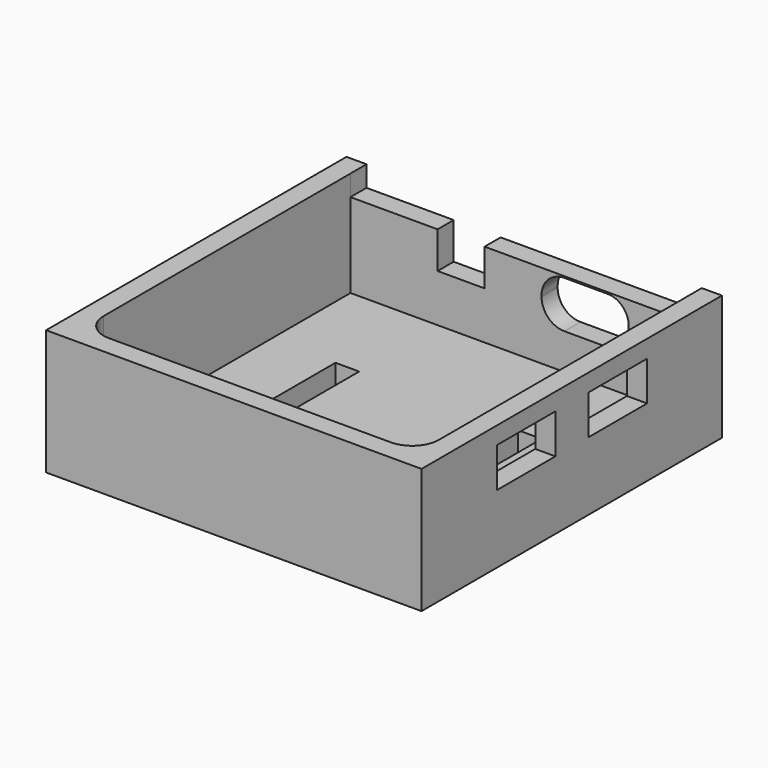
from build123d import *

# Parameters (mm, degrees)
SKETCH_W        = 56
SKETCH_H        = 56
PAD_DEPTH       = 18.68
PAD001_DEPTH    = 17
SKETCH004_W     = 50
SKETCH004_H     = 50
PAD002_DEPTH    = 3
SKETCH005_W     = 3.539247
SKETCH005_H     = 31.476045
SKETCH005_W_2   = 3.539498
SKETCH005_H_2   = 31.470025
POCKET003_DEPTH = 3
POCKET004_DEPTH = 5
POCKET005_DEPTH = 5
SKETCH003_W     = 10.900068
SKETCH003_H     = 5.909133
SKETCH003_W_2   = 10.899807
SKETCH003_H_2   = 5.880531
POCKET006_DEPTH = 10
POCKET007_DEPTH = 5
SKETCH002_W     = 7.004639
SKETCH002_H     = 5.993783
SKETCH002_W_2   = 50
SKETCH002_H_2   = 4
POCKET008_DEPTH = 5


with BuildPart() as part:
    # Sketch → Pad (new body)
    with BuildSketch(Plane.XY.offset(-11.59)):
        Rectangle(SKETCH_W, SKETCH_H)
        with BuildLine():
            Line((-21.013424, -25), (21.039206, -25))
            ThreePointArc((21.039206, -25), (23.83991, -23.83991), (25, -21.039206))
            Line((25, -21.039206), (25, 21.096275))
            Line((25, 21.096275), (25, 25))
            Line((21.096275, 25), (25, 25))
            Line((21.096275, 25), (-20.979066, 25))
            Line((-20.979066, 25), (-25, 25))
            Line((-25, 20.979066), (-25, 25))
            Line((-25, 20.979066), (-25, -21.013424))
            ThreePointArc((-25, -21.013424), (-23.832359, -23.832359), (-21.013424, -25))
        make_face(mode=Mode.SUBTRACT)
    extrude(amount=PAD_DEPTH)

    # Sketch → Pad001 (join)
    with BuildSketch(Plane.XY.offset(-11.59)):
        Rectangle(SKETCH_W, SKETCH_H)
        with BuildLine():
            Line((-21.013424, -25), (21.039206, -25))
            ThreePointArc((21.039206, -25), (23.83991, -23.83991), (25, -21.039206))
            Line((25, -21.039206), (25, 21.096275))
            Line((25, 21.096275), (25, 25))
            Line((21.096275, 25), (25, 25))
            Line((21.096275, 25), (-20.979066, 25))
            Line((-20.979066, 25), (-25, 25))
            Line((-25, 20.979066), (-25, 25))
            Line((-25, 20.979066), (-25, -21.013424))
            ThreePointArc((-25, -21.013424), (-23.832359, -23.832359), (-21.013424, -25))
        make_face(mode=Mode.SUBTRACT)
    extrude(amount=PAD001_DEPTH)

    # Sketch004 (on Sketch) → Pad002 (join)
    with BuildSketch(Plane.XY.offset(-11.59)):
        Rectangle(SKETCH004_W, SKETCH004_H)
    extrude(amount=PAD002_DEPTH)

    # Sketch005 (on Pad) → Pocket003 (cut)
    with BuildSketch(Plane.XY.offset(-11.59)):
        with Locations((-13.5995, -5.578318)):
            Rectangle(SKETCH005_W, SKETCH005_H)
        with Locations((13.600253, -5.565392)):
            Rectangle(SKETCH005_W_2, SKETCH005_H_2)
    extrude(amount=-POCKET003_DEPTH, mode=Mode.SUBTRACT)

    # Sketch005 (on Pad) → Pocket004 (cut)
    with BuildSketch(Plane.XY.offset(-11.59)):
        with Locations((-13.5995, -5.578318)):
            Rectangle(SKETCH005_W, SKETCH005_H)
        with Locations((13.600253, -5.565392)):
            Rectangle(SKETCH005_W_2, SKETCH005_H_2)
    extrude(amount=-POCKET004_DEPTH, mode=Mode.SUBTRACT)

    # Sketch005 (on Pad) → Pocket005 (cut)
    with BuildSketch(Plane.XY.offset(-11.59)):
        with Locations((-13.5995, -5.578318)):
            Rectangle(SKETCH005_W, SKETCH005_H)
        with Locations((13.600253, -5.565392)):
            Rectangle(SKETCH005_W_2, SKETCH005_H_2)
    extrude(amount=POCKET005_DEPTH, mode=Mode.SUBTRACT)

    # Sketch003 → Pocket006 (cut)
    with BuildSketch(Plane(origin=(25, 0, -3), x_dir=(0, 1, 0), z_dir=(1, 0, 0))):
        with Locations((-8.499979, 4.550172)):
            Rectangle(SKETCH003_W, SKETCH003_H)
        with Locations((8.599925, 4.534825)):
            Rectangle(SKETCH003_W_2, SKETCH003_H_2)
    extrude(amount=POCKET006_DEPTH, mode=Mode.SUBTRACT)

    # Sketch001 → Pocket007 (cut)
    with BuildSketch(Plane(origin=(10, 25, 0.26), x_dir=(1, 0, 0), z_dir=(0, -1, 0))):
        with BuildLine():
            Line((-3.099737, -3.5), (3.104045, -3.5))
            ThreePointArc((3.104045, -3.5), (5.505348, -2.505348), (6.5, -0.104045))
            Line((6.5, -0.104045), (6.5, 0.345505))
            ThreePointArc((6.5, 0.345505), (5.57607, 2.57607), (3.345505, 3.5))
            Line((3.345505, 3.5), (-3.100127, 3.5))
            ThreePointArc((-3.100127, 3.5), (-5.5042, 2.5042), (-6.5, 0.100127))
            Line((-6.5, 0.100127), (-6.5, -0.099737))
            ThreePointArc((-6.5, -0.099737), (-5.504086, -2.504086), (-3.099737, -3.5))
        make_face()
    extrude(amount=-POCKET007_DEPTH, mode=Mode.SUBTRACT)

    # Sketch002 → Pocket008 (cut)
    with BuildSketch(Plane(origin=(0, 25, -3), x_dir=(1, 0, 0), z_dir=(0, -1, 0))):
        with Locations((-8.503573, 4.513289)):
            Rectangle(SKETCH002_W, SKETCH002_H)
        with Locations((-0.011459, 8.993781)):
            Rectangle(SKETCH002_W_2, SKETCH002_H_2)
    extrude(amount=-POCKET008_DEPTH, mode=Mode.SUBTRACT)


solid = part.part
